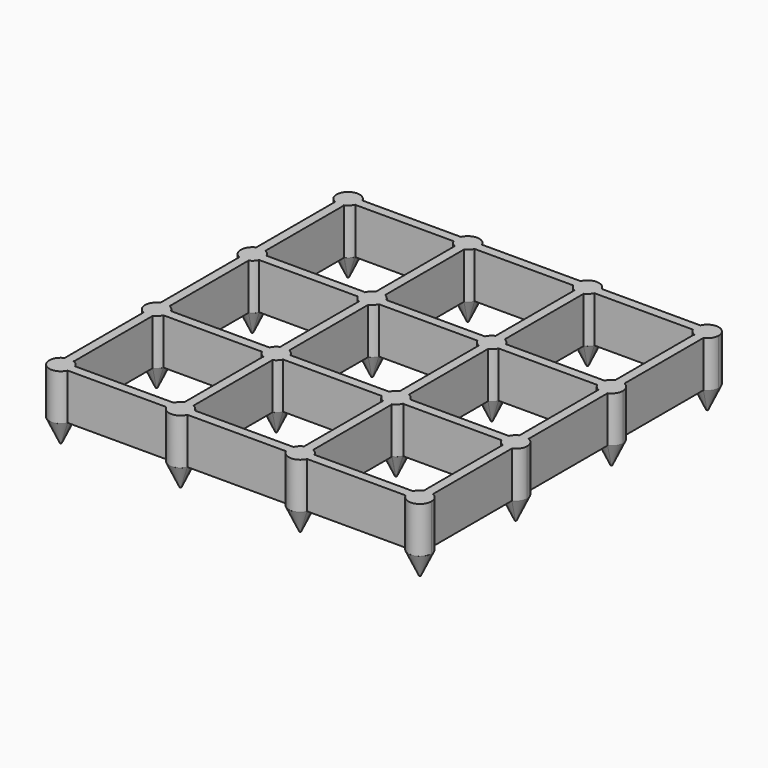
from build123d import *

# Parameters (mm, degrees)
F1_DEPTH = 5
F1_TAPER = 25
F2_DEPTH = 10


with BuildPart() as f1:
    # F0 (on Top) → F1 (new body)
    with BuildSketch(Plane.XY):
        with BuildLine():
            ThreePointArc((-12.0869216066, 62.6727080442), (-12.0432914191, 62.6903011687), (-12, 62.7087121525))
            ThreePointArc((-12, 62.7087121525), (-11.232233047, 63.232233047), (-10.7087121525, 64))
            ThreePointArc((-10.7087121525, 64), (-10.6903011687, 64.0432914191), (-10.6727080442, 64.0869216066))
            ThreePointArc((-10.6727080442, 64.0869216066), (-10.5435564438, 64.5353656758), (-10.5, 65))
            ThreePointArc((-10.5, 65), (-10.5527342177, 65.5107741092), (-10.7087121525, 66))
            ThreePointArc((-10.7087121525, 66), (-14.767766953, 66.767766953), (-14, 62.7087121525))
            ThreePointArc((-14, 62.7087121525), (-13.0470416345, 62.5004426223), (-12.0869216066, 62.6727080442))
        make_face()
    extrude(amount=-F1_DEPTH, taper=F1_TAPER)



with BuildPart() as f1b:
    # F0 (on Top) → F1, piece 2 (new body)
    with BuildSketch(Plane.XY):
        with BuildLine():
            ThreePointArc((-12, 36.7087121525), (-11.232233047, 37.232233047), (-10.7087121525, 38))
            ThreePointArc((-10.7087121525, 38), (-10.5527342177, 38.4892258908), (-10.5, 39))
            ThreePointArc((-10.5, 39), (-10.5527342177, 39.5107741092), (-10.7087121525, 40))
            ThreePointArc((-10.7087121525, 40), (-11.232233047, 40.767766953), (-12, 41.2912878475))
            ThreePointArc((-12, 41.2912878475), (-13, 41.5), (-14, 41.2912878475))
            ThreePointArc((-14, 41.2912878475), (-15.5, 39), (-14, 36.7087121525))
            ThreePointArc((-14, 36.7087121525), (-13, 36.5), (-12, 36.7087121525))
        make_face()
    extrude(amount=-F1_DEPTH, taper=F1_TAPER)


with BuildPart() as f1c:
    # F0 (on Top) → F1, piece 3 (new body)
    with BuildSketch(Plane.XY):
        with BuildLine():
            ThreePointArc((-10.5, 13), (-10.5527342177, 13.5107741092), (-10.7087121525, 14))
            ThreePointArc((-10.7087121525, 14), (-11.232233047, 14.767766953), (-12, 15.2912878475))
            ThreePointArc((-12, 15.2912878475), (-13, 15.5), (-14, 15.2912878475))
            ThreePointArc((-14, 15.2912878475), (-15.5, 13), (-14, 10.7087121525))
            ThreePointArc((-14, 10.7087121525), (-13, 10.5), (-12, 10.7087121525))
            ThreePointArc((-12, 10.7087121525), (-11.232233047, 11.232233047), (-10.7087121525, 12))
            ThreePointArc((-10.7087121525, 12), (-10.5527342177, 12.4892258908), (-10.5, 13))
        make_face()
    extrude(amount=-F1_DEPTH, taper=F1_TAPER)


with BuildPart() as f1d:
    # F0 (on Top) → F1, piece 4 (new body)
    with BuildSketch(Plane.XY):
        with BuildLine():
            ThreePointArc((-10.6727080442, -12.0869216066), (-10.6903011687, -12.0432914191), (-10.7087121525, -12))
            ThreePointArc((-10.7087121525, -12), (-11.232233047, -11.232233047), (-12, -10.7087121525))
            ThreePointArc((-12, -10.7087121525), (-12.0432914191, -10.6903011687), (-12.0869216066, -10.6727080442))
            ThreePointArc((-12.0869216066, -10.6727080442), (-13.0470416345, -10.5004426223), (-14, -10.7087121525))
            ThreePointArc((-14, -10.7087121525), (-14.767766953, -14.767766953), (-10.7087121525, -14))
            ThreePointArc((-10.7087121525, -14), (-10.5527342177, -13.5107741092), (-10.5, -13))
            ThreePointArc((-10.5, -13), (-10.5435564438, -12.5353656758), (-10.6727080442, -12.0869216066))
        make_face()
    extrude(amount=-F1_DEPTH, taper=F1_TAPER)


with BuildPart() as f1e:
    # F0 (on Top) → F1, piece 5 (new body)
    with BuildSketch(Plane.XY):
        with BuildLine():
            ThreePointArc((12, 62.7087121525), (13, 62.5), (14, 62.7087121525))
            ThreePointArc((14, 62.7087121525), (14.767766953, 63.232233047), (15.2912878475, 64))
            ThreePointArc((15.2912878475, 64), (15.4472657823, 64.4892258908), (15.5, 65))
            ThreePointArc((15.5, 65), (15.4472657823, 65.5107741092), (15.2912878475, 66))
            ThreePointArc((15.2912878475, 66), (13, 67.5), (10.7087121525, 66))
            ThreePointArc((10.7087121525, 66), (10.5, 65), (10.7087121525, 64))
            ThreePointArc((10.7087121525, 64), (11.232233047, 63.232233047), (12, 62.7087121525))
        make_face()
    extrude(amount=-F1_DEPTH, taper=F1_TAPER)


with BuildPart() as f1f:
    # F0 (on Top) → F1, piece 6 (new body)
    with BuildSketch(Plane.XY):
        with BuildLine():
            ThreePointArc((12, 36.7087121525), (13, 36.5), (14, 36.7087121525))
            ThreePointArc((14, 36.7087121525), (14.767766953, 37.232233047), (15.2912878475, 38))
            ThreePointArc((15.2912878475, 38), (15.4472657823, 38.4892258908), (15.5, 39))
            ThreePointArc((15.5, 39), (15.4472657823, 39.5107741092), (15.2912878475, 40))
            ThreePointArc((15.2912878475, 40), (14.767766953, 40.767766953), (14, 41.2912878475))
            ThreePointArc((14, 41.2912878475), (13.0470416345, 41.4995573777), (12.0869216066, 41.3272919558))
            ThreePointArc((12.0869216066, 41.3272919558), (12.0432914191, 41.3096988313), (12, 41.2912878475))
            ThreePointArc((12, 41.2912878475), (11.232233047, 40.767766953), (10.7087121525, 40))
            ThreePointArc((10.7087121525, 40), (10.6903011687, 39.9567085809), (10.6727080442, 39.9130783934))
            ThreePointArc((10.6727080442, 39.9130783934), (10.5004426223, 38.9529583655), (10.7087121525, 38))
            ThreePointArc((10.7087121525, 38), (11.232233047, 37.232233047), (12, 36.7087121525))
        make_face()
    extrude(amount=-F1_DEPTH, taper=F1_TAPER)


with BuildPart() as f1g:
    # F0 (on Top) → F1, piece 7 (new body)
    with BuildSketch(Plane.XY):
        with BuildLine():
            ThreePointArc((15.2912878475, 12), (15.4472657823, 12.4892258908), (15.5, 13))
            ThreePointArc((15.5, 13), (15.4472657823, 13.5107741092), (15.2912878475, 14))
            ThreePointArc((15.2912878475, 14), (14.767766953, 14.767766953), (14, 15.2912878475))
            ThreePointArc((14, 15.2912878475), (13, 15.5), (12, 15.2912878475))
            ThreePointArc((12, 15.2912878475), (11.232233047, 14.767766953), (10.7087121525, 14))
            ThreePointArc((10.7087121525, 14), (10.5004426223, 13.0470416345), (10.6727080442, 12.0869216066))
            ThreePointArc((10.6727080442, 12.0869216066), (10.6903011687, 12.0432914191), (10.7087121525, 12))
            ThreePointArc((10.7087121525, 12), (11.232233047, 11.232233047), (12, 10.7087121525))
            ThreePointArc((12, 10.7087121525), (12.0432914191, 10.6903011687), (12.0869216066, 10.6727080442))
            ThreePointArc((12.0869216066, 10.6727080442), (13.0470416345, 10.5004426223), (14, 10.7087121525))
            ThreePointArc((14, 10.7087121525), (14.767766953, 11.232233047), (15.2912878475, 12))
        make_face()
    extrude(amount=-F1_DEPTH, taper=F1_TAPER)


with BuildPart() as f1h:
    # F0 (on Top) → F1, piece 8 (new body)
    with BuildSketch(Plane.XY):
        with BuildLine():
            ThreePointArc((15.2912878475, -12), (14.767766953, -11.232233047), (14, -10.7087121525))
            ThreePointArc((14, -10.7087121525), (13, -10.5), (12, -10.7087121525))
            ThreePointArc((12, -10.7087121525), (11.232233047, -11.232233047), (10.7087121525, -12))
            ThreePointArc((10.7087121525, -12), (10.5, -13), (10.7087121525, -14))
            ThreePointArc((10.7087121525, -14), (13, -15.5), (15.2912878475, -14))
            ThreePointArc((15.2912878475, -14), (15.4472657823, -13.5107741092), (15.5, -13))
            ThreePointArc((15.5, -13), (15.4472657823, -12.4892258908), (15.2912878475, -12))
        make_face()
    extrude(amount=-F1_DEPTH, taper=F1_TAPER)


with BuildPart() as f1i:
    # F0 (on Top) → F1, piece 9 (new body)
    with BuildSketch(Plane.XY):
        with BuildLine():
            ThreePointArc((36.7087121525, 64), (37.232233047, 63.232233047), (38, 62.7087121525))
            ThreePointArc((38, 62.7087121525), (39, 62.5), (40, 62.7087121525))
            ThreePointArc((40, 62.7087121525), (40.767766953, 63.232233047), (41.2912878475, 64))
            ThreePointArc((41.2912878475, 64), (41.4472657823, 64.4892258908), (41.5, 65))
            ThreePointArc((41.5, 65), (41.4472657823, 65.5107741092), (41.2912878475, 66))
            ThreePointArc((41.2912878475, 66), (39, 67.5), (36.7087121525, 66))
            ThreePointArc((36.7087121525, 66), (36.5, 65), (36.7087121525, 64))
        make_face()
    extrude(amount=-F1_DEPTH, taper=F1_TAPER)


with BuildPart() as f1j:
    # F0 (on Top) → F1, piece 10 (new body)
    with BuildSketch(Plane.XY):
        with BuildLine():
            ThreePointArc((36.7087121525, 38), (37.232233047, 37.232233047), (38, 36.7087121525))
            ThreePointArc((38, 36.7087121525), (39, 36.5), (40, 36.7087121525))
            ThreePointArc((40, 36.7087121525), (40.767766953, 37.232233047), (41.2912878475, 38))
            ThreePointArc((41.2912878475, 38), (41.4472657823, 38.4892258908), (41.5, 39))
            ThreePointArc((41.5, 39), (41.4564435562, 39.4646343242), (41.3272919558, 39.9130783934))
            ThreePointArc((41.3272919558, 39.9130783934), (41.3096988313, 39.9567085809), (41.2912878475, 40))
            ThreePointArc((41.2912878475, 40), (40.767766953, 40.767766953), (40, 41.2912878475))
            ThreePointArc((40, 41.2912878475), (39.9567085809, 41.3096988313), (39.9130783934, 41.3272919558))
            ThreePointArc((39.9130783934, 41.3272919558), (38.9529583655, 41.4995573777), (38, 41.2912878475))
            ThreePointArc((38, 41.2912878475), (37.232233047, 40.767766953), (36.7087121525, 40))
            ThreePointArc((36.7087121525, 40), (36.5, 39), (36.7087121525, 38))
        make_face()
    extrude(amount=-F1_DEPTH, taper=F1_TAPER)


with BuildPart() as f1k:
    # F0 (on Top) → F1, piece 11 (new body)
    with BuildSketch(Plane.XY):
        with BuildLine():
            ThreePointArc((38, 15.2912878475), (37.232233047, 14.767766953), (36.7087121525, 14))
            ThreePointArc((36.7087121525, 14), (36.5, 13), (36.7087121525, 12))
            ThreePointArc((36.7087121525, 12), (37.232233047, 11.232233047), (38, 10.7087121525))
            ThreePointArc((38, 10.7087121525), (38.9529583655, 10.5004426223), (39.9130783934, 10.6727080442))
            ThreePointArc((39.9130783934, 10.6727080442), (39.9567085809, 10.6903011687), (40, 10.7087121525))
            ThreePointArc((40, 10.7087121525), (40.767766953, 11.232233047), (41.2912878475, 12))
            ThreePointArc((41.2912878475, 12), (41.3096988313, 12.0432914191), (41.3272919558, 12.0869216066))
            ThreePointArc((41.3272919558, 12.0869216066), (41.4564435562, 12.5353656758), (41.5, 13))
            ThreePointArc((41.5, 13), (41.4472657823, 13.5107741092), (41.2912878475, 14))
            ThreePointArc((41.2912878475, 14), (40.767766953, 14.767766953), (40, 15.2912878475))
            ThreePointArc((40, 15.2912878475), (39, 15.5), (38, 15.2912878475))
        make_face()
    extrude(amount=-F1_DEPTH, taper=F1_TAPER)


with BuildPart() as f1l:
    # F0 (on Top) → F1, piece 12 (new body)
    with BuildSketch(Plane.XY):
        with BuildLine():
            ThreePointArc((40, -10.7087121525), (39, -10.5), (38, -10.7087121525))
            ThreePointArc((38, -10.7087121525), (37.232233047, -11.232233047), (36.7087121525, -12))
            ThreePointArc((36.7087121525, -12), (36.5, -13), (36.7087121525, -14))
            ThreePointArc((36.7087121525, -14), (39, -15.5), (41.2912878475, -14))
            ThreePointArc((41.2912878475, -14), (41.4472657823, -13.5107741092), (41.5, -13))
            ThreePointArc((41.5, -13), (41.4472657823, -12.4892258908), (41.2912878475, -12))
            ThreePointArc((41.2912878475, -12), (40.767766953, -11.232233047), (40, -10.7087121525))
        make_face()
    extrude(amount=-F1_DEPTH, taper=F1_TAPER)


with BuildPart() as f1m:
    # F0 (on Top) → F1, piece 13 (new body)
    with BuildSketch(Plane.XY):
        with BuildLine():
            ThreePointArc((62.6727080442, 64.0869216066), (62.6903011687, 64.0432914191), (62.7087121525, 64))
            ThreePointArc((62.7087121525, 64), (63.232233047, 63.232233047), (64, 62.7087121525))
            ThreePointArc((64, 62.7087121525), (64.0432914191, 62.6903011687), (64.0869216066, 62.6727080442))
            ThreePointArc((64.0869216066, 62.6727080442), (65.0470416345, 62.5004426223), (66, 62.7087121525))
            ThreePointArc((66, 62.7087121525), (67.0916500663, 63.6306936062), (67.5, 65))
            ThreePointArc((67.5, 65), (65.5107741092, 67.4472657823), (62.7087121525, 66))
            ThreePointArc((62.7087121525, 66), (62.5004426223, 65.0470416345), (62.6727080442, 64.0869216066))
        make_face()
    extrude(amount=-F1_DEPTH, taper=F1_TAPER)


with BuildPart() as f1n:
    # F0 (on Top) → F1, piece 14 (new body)
    with BuildSketch(Plane.XY):
        with BuildLine():
            ThreePointArc((62.7087121525, 40), (62.5, 39), (62.7087121525, 38))
            ThreePointArc((62.7087121525, 38), (63.232233047, 37.232233047), (64, 36.7087121525))
            ThreePointArc((64, 36.7087121525), (65, 36.5), (66, 36.7087121525))
            ThreePointArc((66, 36.7087121525), (67.0916500663, 37.6306936062), (67.5, 39))
            ThreePointArc((67.5, 39), (67.0916500663, 40.3693063938), (66, 41.2912878475))
            ThreePointArc((66, 41.2912878475), (65, 41.5), (64, 41.2912878475))
            ThreePointArc((64, 41.2912878475), (63.232233047, 40.767766953), (62.7087121525, 40))
        make_face()
    extrude(amount=-F1_DEPTH, taper=F1_TAPER)


with BuildPart() as f1o:
    # F0 (on Top) → F1, piece 15 (new body)
    with BuildSketch(Plane.XY):
        with BuildLine():
            ThreePointArc((64, 15.2912878475), (63.232233047, 14.767766953), (62.7087121525, 14))
            ThreePointArc((62.7087121525, 14), (62.5, 13), (62.7087121525, 12))
            ThreePointArc((62.7087121525, 12), (63.232233047, 11.232233047), (64, 10.7087121525))
            ThreePointArc((64, 10.7087121525), (65, 10.5), (66, 10.7087121525))
            ThreePointArc((66, 10.7087121525), (67.0916500663, 11.6306936062), (67.5, 13))
            ThreePointArc((67.5, 13), (67.0916500663, 14.3693063938), (66, 15.2912878475))
            ThreePointArc((66, 15.2912878475), (65, 15.5), (64, 15.2912878475))
        make_face()
    extrude(amount=-F1_DEPTH, taper=F1_TAPER)


with BuildPart() as f1p:
    # F0 (on Top) → F1, piece 16 (new body)
    with BuildSketch(Plane.XY):
        with BuildLine():
            ThreePointArc((64, -10.7087121525), (63.232233047, -11.232233047), (62.7087121525, -12))
            ThreePointArc((62.7087121525, -12), (62.6903011687, -12.0432914191), (62.6727080442, -12.0869216066))
            ThreePointArc((62.6727080442, -12.0869216066), (62.5004426223, -13.0470416345), (62.7087121525, -14))
            ThreePointArc((62.7087121525, -14), (65.5107741092, -15.4472657823), (67.5, -13))
            ThreePointArc((67.5, -13), (67.0916500663, -11.6306936062), (66, -10.7087121525))
            ThreePointArc((66, -10.7087121525), (65.0470416345, -10.5004426223), (64.0869216066, -10.6727080442))
            ThreePointArc((64.0869216066, -10.6727080442), (64.0432914191, -10.6903011687), (64, -10.7087121525))
        make_face()
    extrude(amount=-F1_DEPTH, taper=F1_TAPER)


with BuildPart() as f1_1:
    add(f1.part)

    add(f1b.part)  # F2 merges F1b

    add(f1c.part)  # F2 merges F1c

    add(f1d.part)  # F2 merges F1d

    add(f1e.part)  # F2 merges F1e

    add(f1f.part)  # F2 merges F1f

    add(f1g.part)  # F2 merges F1g

    add(f1h.part)  # F2 merges F1h

    add(f1i.part)  # F2 merges F1i

    add(f1j.part)  # F2 merges F1j

    add(f1k.part)  # F2 merges F1k

    add(f1l.part)  # F2 merges F1l

    add(f1m.part)  # F2 merges F1m

    add(f1n.part)  # F2 merges F1n

    add(f1o.part)  # F2 merges F1o

    add(f1p.part)  # F2 merges F1p
    # F0 (on Top) → F2 (join)
    with BuildSketch(Plane.XY):
        with BuildLine():
            ThreePointArc((-12.0869216066, 62.6727080442), (-12.0432914191, 62.6903011687), (-12, 62.7087121525))
            ThreePointArc((-12, 62.7087121525), (-11.232233047, 63.232233047), (-10.7087121525, 64))
            ThreePointArc((-10.7087121525, 64), (-10.6903011687, 64.0432914191), (-10.6727080442, 64.0869216066))
            ThreePointArc((-10.6727080442, 64.0869216066), (-10.5435564438, 64.5353656758), (-10.5, 65))
            ThreePointArc((-10.5, 65), (-10.5527342177, 65.5107741092), (-10.7087121525, 66))
            ThreePointArc((-10.7087121525, 66), (-14.767766953, 66.767766953), (-14, 62.7087121525))
            ThreePointArc((-14, 62.7087121525), (-13.0470416345, 62.5004426223), (-12.0869216066, 62.6727080442))
        make_face()
        with BuildLine():
            Line((-12, 41.2912878475), (-12, 62.5857864376))
            Line((-12, 62.5857864376), (-12.0869216066, 62.6727080442))
            ThreePointArc((-12.0869216066, 62.6727080442), (-13.0470416345, 62.5004426223), (-14, 62.7087121525))
            Line((-14, 62.7087121525), (-14, 41.2912878475))
            ThreePointArc((-14, 41.2912878475), (-13, 41.5), (-12, 41.2912878475))
        make_face()
        with BuildLine():
            ThreePointArc((-12, 36.7087121525), (-11.232233047, 37.232233047), (-10.7087121525, 38))
            ThreePointArc((-10.7087121525, 38), (-10.5527342177, 38.4892258908), (-10.5, 39))
            ThreePointArc((-10.5, 39), (-10.5527342177, 39.5107741092), (-10.7087121525, 40))
            ThreePointArc((-10.7087121525, 40), (-11.232233047, 40.767766953), (-12, 41.2912878475))
            ThreePointArc((-12, 41.2912878475), (-13, 41.5), (-14, 41.2912878475))
            ThreePointArc((-14, 41.2912878475), (-15.5, 39), (-14, 36.7087121525))
            ThreePointArc((-14, 36.7087121525), (-13, 36.5), (-12, 36.7087121525))
        make_face()
        with BuildLine():
            ThreePointArc((-14, 15.2912878475), (-13, 15.5), (-12, 15.2912878475))
            Line((-12, 15.2912878475), (-12, 36.7087121525))
            ThreePointArc((-12, 36.7087121525), (-13, 36.5), (-14, 36.7087121525))
            Line((-14, 36.7087121525), (-14, 15.2912878475))
        make_face()
        with BuildLine():
            ThreePointArc((-10.5, 13), (-10.5527342177, 13.5107741092), (-10.7087121525, 14))
            ThreePointArc((-10.7087121525, 14), (-11.232233047, 14.767766953), (-12, 15.2912878475))
            ThreePointArc((-12, 15.2912878475), (-13, 15.5), (-14, 15.2912878475))
            ThreePointArc((-14, 15.2912878475), (-15.5, 13), (-14, 10.7087121525))
            ThreePointArc((-14, 10.7087121525), (-13, 10.5), (-12, 10.7087121525))
            ThreePointArc((-12, 10.7087121525), (-11.232233047, 11.232233047), (-10.7087121525, 12))
            ThreePointArc((-10.7087121525, 12), (-10.5527342177, 12.4892258908), (-10.5, 13))
        make_face()
        with BuildLine():
            Line((-12.0869216066, -10.6727080442), (-12, -10.5857864376))
            Line((-12, -10.5857864376), (-12, 10.7087121525))
            ThreePointArc((-12, 10.7087121525), (-13, 10.5), (-14, 10.7087121525))
            Line((-14, 10.7087121525), (-14, -10.7087121525))
            ThreePointArc((-14, -10.7087121525), (-13.0470416345, -10.5004426223), (-12.0869216066, -10.6727080442))
        make_face()
        with BuildLine():
            ThreePointArc((-10.6727080442, -12.0869216066), (-10.6903011687, -12.0432914191), (-10.7087121525, -12))
            ThreePointArc((-10.7087121525, -12), (-11.232233047, -11.232233047), (-12, -10.7087121525))
            ThreePointArc((-12, -10.7087121525), (-12.0432914191, -10.6903011687), (-12.0869216066, -10.6727080442))
            ThreePointArc((-12.0869216066, -10.6727080442), (-13.0470416345, -10.5004426223), (-14, -10.7087121525))
            ThreePointArc((-14, -10.7087121525), (-14.767766953, -14.767766953), (-10.7087121525, -14))
            ThreePointArc((-10.7087121525, -14), (-10.5527342177, -13.5107741092), (-10.5, -13))
            ThreePointArc((-10.5, -13), (-10.5435564438, -12.5353656758), (-10.6727080442, -12.0869216066))
        make_face()
        with BuildLine():
            Line((-10.6727080442, 64.0869216066), (-10.5857864376, 64))
            Line((-10.5857864376, 64), (10.7087121525, 64))
            ThreePointArc((10.7087121525, 64), (10.5, 65), (10.7087121525, 66))
            Line((10.7087121525, 66), (-10.7087121525, 66))
            ThreePointArc((-10.7087121525, 66), (-10.5527342177, 65.5107741092), (-10.5, 65))
            ThreePointArc((-10.5, 65), (-10.5435564438, 64.5353656758), (-10.6727080442, 64.0869216066))
        make_face()
        with BuildLine():
            Line((-10.7087121525, 38), (10.7087121525, 38))
            ThreePointArc((10.7087121525, 38), (10.5004426223, 38.9529583655), (10.6727080442, 39.9130783934))
            Line((10.6727080442, 39.9130783934), (10.5857864376, 40))
            Line((10.5857864376, 40), (-10.7087121525, 40))
            ThreePointArc((-10.7087121525, 40), (-10.5527342177, 39.5107741092), (-10.5, 39))
            ThreePointArc((-10.5, 39), (-10.5527342177, 38.4892258908), (-10.7087121525, 38))
        make_face()
        with BuildLine():
            ThreePointArc((10.6727080442, 12.0869216066), (10.5004426223, 13.0470416345), (10.7087121525, 14))
            Line((10.7087121525, 14), (-10.7087121525, 14))
            ThreePointArc((-10.7087121525, 14), (-10.5527342177, 13.5107741092), (-10.5, 13))
            ThreePointArc((-10.5, 13), (-10.5527342177, 12.4892258908), (-10.7087121525, 12))
            Line((-10.7087121525, 12), (10.5857864376, 12))
            Line((10.5857864376, 12), (10.6727080442, 12.0869216066))
        make_face()
        with BuildLine():
            Line((10.7087121525, -12), (-10.5857864376, -12))
            Line((-10.5857864376, -12), (-10.6727080442, -12.0869216066))
            ThreePointArc((-10.6727080442, -12.0869216066), (-10.5435564438, -12.5353656758), (-10.5, -13))
            ThreePointArc((-10.5, -13), (-10.5527342177, -13.5107741092), (-10.7087121525, -14))
            Line((-10.7087121525, -14), (10.7087121525, -14))
            ThreePointArc((10.7087121525, -14), (10.5, -13), (10.7087121525, -12))
        make_face()
        with BuildLine():
            ThreePointArc((15.2912878475, -12), (14.767766953, -11.232233047), (14, -10.7087121525))
            ThreePointArc((14, -10.7087121525), (13, -10.5), (12, -10.7087121525))
            ThreePointArc((12, -10.7087121525), (11.232233047, -11.232233047), (10.7087121525, -12))
            ThreePointArc((10.7087121525, -12), (10.5, -13), (10.7087121525, -14))
            ThreePointArc((10.7087121525, -14), (13, -15.5), (15.2912878475, -14))
            ThreePointArc((15.2912878475, -14), (15.4472657823, -13.5107741092), (15.5, -13))
            ThreePointArc((15.5, -13), (15.4472657823, -12.4892258908), (15.2912878475, -12))
        make_face()
        with BuildLine():
            Line((14, -10.7087121525), (14, 10.7087121525))
            ThreePointArc((14, 10.7087121525), (13.0470416345, 10.5004426223), (12.0869216066, 10.6727080442))
            Line((12.0869216066, 10.6727080442), (12, 10.5857864376))
            Line((12, 10.5857864376), (12, -10.7087121525))
            ThreePointArc((12, -10.7087121525), (13, -10.5), (14, -10.7087121525))
        make_face()
        with BuildLine():
            ThreePointArc((15.2912878475, 12), (15.4472657823, 12.4892258908), (15.5, 13))
            ThreePointArc((15.5, 13), (15.4472657823, 13.5107741092), (15.2912878475, 14))
            ThreePointArc((15.2912878475, 14), (14.767766953, 14.767766953), (14, 15.2912878475))
            ThreePointArc((14, 15.2912878475), (13, 15.5), (12, 15.2912878475))
            ThreePointArc((12, 15.2912878475), (11.232233047, 14.767766953), (10.7087121525, 14))
            ThreePointArc((10.7087121525, 14), (10.5004426223, 13.0470416345), (10.6727080442, 12.0869216066))
            ThreePointArc((10.6727080442, 12.0869216066), (10.6903011687, 12.0432914191), (10.7087121525, 12))
            ThreePointArc((10.7087121525, 12), (11.232233047, 11.232233047), (12, 10.7087121525))
            ThreePointArc((12, 10.7087121525), (12.0432914191, 10.6903011687), (12.0869216066, 10.6727080442))
            ThreePointArc((12.0869216066, 10.6727080442), (13.0470416345, 10.5004426223), (14, 10.7087121525))
            ThreePointArc((14, 10.7087121525), (14.767766953, 11.232233047), (15.2912878475, 12))
        make_face()
        with BuildLine():
            ThreePointArc((12, 15.2912878475), (13, 15.5), (14, 15.2912878475))
            Line((14, 15.2912878475), (14, 36.7087121525))
            ThreePointArc((14, 36.7087121525), (13, 36.5), (12, 36.7087121525))
            Line((12, 36.7087121525), (12, 15.2912878475))
        make_face()
        with BuildLine():
            ThreePointArc((12, 36.7087121525), (13, 36.5), (14, 36.7087121525))
            ThreePointArc((14, 36.7087121525), (14.767766953, 37.232233047), (15.2912878475, 38))
            ThreePointArc((15.2912878475, 38), (15.4472657823, 38.4892258908), (15.5, 39))
            ThreePointArc((15.5, 39), (15.4472657823, 39.5107741092), (15.2912878475, 40))
            ThreePointArc((15.2912878475, 40), (14.767766953, 40.767766953), (14, 41.2912878475))
            ThreePointArc((14, 41.2912878475), (13.0470416345, 41.4995573777), (12.0869216066, 41.3272919558))
            ThreePointArc((12.0869216066, 41.3272919558), (12.0432914191, 41.3096988313), (12, 41.2912878475))
            ThreePointArc((12, 41.2912878475), (11.232233047, 40.767766953), (10.7087121525, 40))
            ThreePointArc((10.7087121525, 40), (10.6903011687, 39.9567085809), (10.6727080442, 39.9130783934))
            ThreePointArc((10.6727080442, 39.9130783934), (10.5004426223, 38.9529583655), (10.7087121525, 38))
            ThreePointArc((10.7087121525, 38), (11.232233047, 37.232233047), (12, 36.7087121525))
        make_face()
        with BuildLine():
            ThreePointArc((12.0869216066, 41.3272919558), (13.0470416345, 41.4995573777), (14, 41.2912878475))
            Line((14, 41.2912878475), (14, 62.7087121525))
            ThreePointArc((14, 62.7087121525), (13, 62.5), (12, 62.7087121525))
            Line((12, 62.7087121525), (12, 41.4142135624))
            Line((12, 41.4142135624), (12.0869216066, 41.3272919558))
        make_face()
        with BuildLine():
            ThreePointArc((12, 62.7087121525), (13, 62.5), (14, 62.7087121525))
            ThreePointArc((14, 62.7087121525), (14.767766953, 63.232233047), (15.2912878475, 64))
            ThreePointArc((15.2912878475, 64), (15.4472657823, 64.4892258908), (15.5, 65))
            ThreePointArc((15.5, 65), (15.4472657823, 65.5107741092), (15.2912878475, 66))
            ThreePointArc((15.2912878475, 66), (13, 67.5), (10.7087121525, 66))
            ThreePointArc((10.7087121525, 66), (10.5, 65), (10.7087121525, 64))
            ThreePointArc((10.7087121525, 64), (11.232233047, 63.232233047), (12, 62.7087121525))
        make_face()
        with BuildLine():
            ThreePointArc((15.5, 65), (15.4472657823, 64.4892258908), (15.2912878475, 64))
            Line((15.2912878475, 64), (36.7087121525, 64))
            ThreePointArc((36.7087121525, 64), (36.5, 65), (36.7087121525, 66))
            Line((36.7087121525, 66), (15.2912878475, 66))
            ThreePointArc((15.2912878475, 66), (15.4472657823, 65.5107741092), (15.5, 65))
        make_face()
        with BuildLine():
            ThreePointArc((15.5, 39), (15.4472657823, 38.4892258908), (15.2912878475, 38))
            Line((15.2912878475, 38), (36.7087121525, 38))
            ThreePointArc((36.7087121525, 38), (36.5, 39), (36.7087121525, 40))
            Line((36.7087121525, 40), (15.2912878475, 40))
            ThreePointArc((15.2912878475, 40), (15.4472657823, 39.5107741092), (15.5, 39))
        make_face()
        with BuildLine():
            ThreePointArc((15.2912878475, 14), (15.4472657823, 13.5107741092), (15.5, 13))
            ThreePointArc((15.5, 13), (15.4472657823, 12.4892258908), (15.2912878475, 12))
            Line((15.2912878475, 12), (36.7087121525, 12))
            ThreePointArc((36.7087121525, 12), (36.5, 13), (36.7087121525, 14))
            Line((36.7087121525, 14), (15.2912878475, 14))
        make_face()
        with BuildLine():
            Line((36.7087121525, -12), (15.2912878475, -12))
            ThreePointArc((15.2912878475, -12), (15.4472657823, -12.4892258908), (15.5, -13))
            ThreePointArc((15.5, -13), (15.4472657823, -13.5107741092), (15.2912878475, -14))
            Line((15.2912878475, -14), (36.7087121525, -14))
            ThreePointArc((36.7087121525, -14), (36.5, -13), (36.7087121525, -12))
        make_face()
        with BuildLine():
            ThreePointArc((36.7087121525, 64), (37.232233047, 63.232233047), (38, 62.7087121525))
            ThreePointArc((38, 62.7087121525), (39, 62.5), (40, 62.7087121525))
            ThreePointArc((40, 62.7087121525), (40.767766953, 63.232233047), (41.2912878475, 64))
            ThreePointArc((41.2912878475, 64), (41.4472657823, 64.4892258908), (41.5, 65))
            ThreePointArc((41.5, 65), (41.4472657823, 65.5107741092), (41.2912878475, 66))
            ThreePointArc((41.2912878475, 66), (39, 67.5), (36.7087121525, 66))
            ThreePointArc((36.7087121525, 66), (36.5, 65), (36.7087121525, 64))
        make_face()
        with BuildLine():
            Line((38, 62.7087121525), (38, 41.2912878475))
            ThreePointArc((38, 41.2912878475), (38.9529583655, 41.4995573777), (39.9130783934, 41.3272919558))
            Line((39.9130783934, 41.3272919558), (40, 41.4142135624))
            Line((40, 41.4142135624), (40, 62.7087121525))
            ThreePointArc((40, 62.7087121525), (39, 62.5), (38, 62.7087121525))
        make_face()
        with BuildLine():
            ThreePointArc((36.7087121525, 38), (37.232233047, 37.232233047), (38, 36.7087121525))
            ThreePointArc((38, 36.7087121525), (39, 36.5), (40, 36.7087121525))
            ThreePointArc((40, 36.7087121525), (40.767766953, 37.232233047), (41.2912878475, 38))
            ThreePointArc((41.2912878475, 38), (41.4472657823, 38.4892258908), (41.5, 39))
            ThreePointArc((41.5, 39), (41.4564435562, 39.4646343242), (41.3272919558, 39.9130783934))
            ThreePointArc((41.3272919558, 39.9130783934), (41.3096988313, 39.9567085809), (41.2912878475, 40))
            ThreePointArc((41.2912878475, 40), (40.767766953, 40.767766953), (40, 41.2912878475))
            ThreePointArc((40, 41.2912878475), (39.9567085809, 41.3096988313), (39.9130783934, 41.3272919558))
            ThreePointArc((39.9130783934, 41.3272919558), (38.9529583655, 41.4995573777), (38, 41.2912878475))
            ThreePointArc((38, 41.2912878475), (37.232233047, 40.767766953), (36.7087121525, 40))
            ThreePointArc((36.7087121525, 40), (36.5, 39), (36.7087121525, 38))
        make_face()
        with BuildLine():
            Line((38, 36.7087121525), (38, 15.2912878475))
            ThreePointArc((38, 15.2912878475), (39, 15.5), (40, 15.2912878475))
            Line((40, 15.2912878475), (40, 36.7087121525))
            ThreePointArc((40, 36.7087121525), (39, 36.5), (38, 36.7087121525))
        make_face()
        with BuildLine():
            ThreePointArc((38, 15.2912878475), (37.232233047, 14.767766953), (36.7087121525, 14))
            ThreePointArc((36.7087121525, 14), (36.5, 13), (36.7087121525, 12))
            ThreePointArc((36.7087121525, 12), (37.232233047, 11.232233047), (38, 10.7087121525))
            ThreePointArc((38, 10.7087121525), (38.9529583655, 10.5004426223), (39.9130783934, 10.6727080442))
            ThreePointArc((39.9130783934, 10.6727080442), (39.9567085809, 10.6903011687), (40, 10.7087121525))
            ThreePointArc((40, 10.7087121525), (40.767766953, 11.232233047), (41.2912878475, 12))
            ThreePointArc((41.2912878475, 12), (41.3096988313, 12.0432914191), (41.3272919558, 12.0869216066))
            ThreePointArc((41.3272919558, 12.0869216066), (41.4564435562, 12.5353656758), (41.5, 13))
            ThreePointArc((41.5, 13), (41.4472657823, 13.5107741092), (41.2912878475, 14))
            ThreePointArc((41.2912878475, 14), (40.767766953, 14.767766953), (40, 15.2912878475))
            ThreePointArc((40, 15.2912878475), (39, 15.5), (38, 15.2912878475))
        make_face()
        with BuildLine():
            ThreePointArc((40, -10.7087121525), (39, -10.5), (38, -10.7087121525))
            ThreePointArc((38, -10.7087121525), (37.232233047, -11.232233047), (36.7087121525, -12))
            ThreePointArc((36.7087121525, -12), (36.5, -13), (36.7087121525, -14))
            ThreePointArc((36.7087121525, -14), (39, -15.5), (41.2912878475, -14))
            ThreePointArc((41.2912878475, -14), (41.4472657823, -13.5107741092), (41.5, -13))
            ThreePointArc((41.5, -13), (41.4472657823, -12.4892258908), (41.2912878475, -12))
            ThreePointArc((41.2912878475, -12), (40.767766953, -11.232233047), (40, -10.7087121525))
        make_face()
        with BuildLine():
            Line((41.2912878475, 64), (62.5857864376, 64))
            Line((62.5857864376, 64), (62.6727080442, 64.0869216066))
            ThreePointArc((62.6727080442, 64.0869216066), (62.5004426223, 65.0470416345), (62.7087121525, 66))
            Line((62.7087121525, 66), (41.2912878475, 66))
            ThreePointArc((41.2912878475, 66), (41.4472657823, 65.5107741092), (41.5, 65))
            ThreePointArc((41.5, 65), (41.4472657823, 64.4892258908), (41.2912878475, 64))
        make_face()
        with BuildLine():
            ThreePointArc((41.5, 39), (41.4472657823, 38.4892258908), (41.2912878475, 38))
            Line((41.2912878475, 38), (62.7087121525, 38))
            ThreePointArc((62.7087121525, 38), (62.5, 39), (62.7087121525, 40))
            Line((62.7087121525, 40), (41.4142135624, 40))
            Line((41.4142135624, 40), (41.3272919558, 39.9130783934))
            ThreePointArc((41.3272919558, 39.9130783934), (41.4564435562, 39.4646343242), (41.5, 39))
        make_face()
        with BuildLine():
            Line((62.7087121525, 14), (41.2912878475, 14))
            ThreePointArc((41.2912878475, 14), (41.4472657823, 13.5107741092), (41.5, 13))
            ThreePointArc((41.5, 13), (41.4564435562, 12.5353656758), (41.3272919558, 12.0869216066))
            Line((41.3272919558, 12.0869216066), (41.4142135624, 12))
            Line((41.4142135624, 12), (62.7087121525, 12))
            ThreePointArc((62.7087121525, 12), (62.5, 13), (62.7087121525, 14))
        make_face()
        with BuildLine():
            Line((62.5857864376, -12), (41.2912878475, -12))
            ThreePointArc((41.2912878475, -12), (41.4472657823, -12.4892258908), (41.5, -13))
            ThreePointArc((41.5, -13), (41.4472657823, -13.5107741092), (41.2912878475, -14))
            Line((41.2912878475, -14), (62.7087121525, -14))
            ThreePointArc((62.7087121525, -14), (62.5004426223, -13.0470416345), (62.6727080442, -12.0869216066))
            Line((62.6727080442, -12.0869216066), (62.5857864376, -12))
        make_face()
        with BuildLine():
            ThreePointArc((62.6727080442, 64.0869216066), (62.6903011687, 64.0432914191), (62.7087121525, 64))
            ThreePointArc((62.7087121525, 64), (63.232233047, 63.232233047), (64, 62.7087121525))
            ThreePointArc((64, 62.7087121525), (64.0432914191, 62.6903011687), (64.0869216066, 62.6727080442))
            ThreePointArc((64.0869216066, 62.6727080442), (65.0470416345, 62.5004426223), (66, 62.7087121525))
            ThreePointArc((66, 62.7087121525), (67.0916500663, 63.6306936062), (67.5, 65))
            ThreePointArc((67.5, 65), (65.5107741092, 67.4472657823), (62.7087121525, 66))
            ThreePointArc((62.7087121525, 66), (62.5004426223, 65.0470416345), (62.6727080442, 64.0869216066))
        make_face()
        with BuildLine():
            ThreePointArc((62.7087121525, 40), (62.5, 39), (62.7087121525, 38))
            ThreePointArc((62.7087121525, 38), (63.232233047, 37.232233047), (64, 36.7087121525))
            ThreePointArc((64, 36.7087121525), (65, 36.5), (66, 36.7087121525))
            ThreePointArc((66, 36.7087121525), (67.0916500663, 37.6306936062), (67.5, 39))
            ThreePointArc((67.5, 39), (67.0916500663, 40.3693063938), (66, 41.2912878475))
            ThreePointArc((66, 41.2912878475), (65, 41.5), (64, 41.2912878475))
            ThreePointArc((64, 41.2912878475), (63.232233047, 40.767766953), (62.7087121525, 40))
        make_face()
        with BuildLine():
            ThreePointArc((64, 15.2912878475), (63.232233047, 14.767766953), (62.7087121525, 14))
            ThreePointArc((62.7087121525, 14), (62.5, 13), (62.7087121525, 12))
            ThreePointArc((62.7087121525, 12), (63.232233047, 11.232233047), (64, 10.7087121525))
            ThreePointArc((64, 10.7087121525), (65, 10.5), (66, 10.7087121525))
            ThreePointArc((66, 10.7087121525), (67.0916500663, 11.6306936062), (67.5, 13))
            ThreePointArc((67.5, 13), (67.0916500663, 14.3693063938), (66, 15.2912878475))
            ThreePointArc((66, 15.2912878475), (65, 15.5), (64, 15.2912878475))
        make_face()
        with BuildLine():
            ThreePointArc((64, -10.7087121525), (63.232233047, -11.232233047), (62.7087121525, -12))
            ThreePointArc((62.7087121525, -12), (62.6903011687, -12.0432914191), (62.6727080442, -12.0869216066))
            ThreePointArc((62.6727080442, -12.0869216066), (62.5004426223, -13.0470416345), (62.7087121525, -14))
            ThreePointArc((62.7087121525, -14), (65.5107741092, -15.4472657823), (67.5, -13))
            ThreePointArc((67.5, -13), (67.0916500663, -11.6306936062), (66, -10.7087121525))
            ThreePointArc((66, -10.7087121525), (65.0470416345, -10.5004426223), (64.0869216066, -10.6727080442))
            ThreePointArc((64.0869216066, -10.6727080442), (64.0432914191, -10.6903011687), (64, -10.7087121525))
        make_face()
        with BuildLine():
            Line((64, 36.7087121525), (64, 15.2912878475))
            ThreePointArc((64, 15.2912878475), (65, 15.5), (66, 15.2912878475))
            Line((66, 15.2912878475), (66, 36.7087121525))
            ThreePointArc((66, 36.7087121525), (65, 36.5), (64, 36.7087121525))
        make_face()
        with BuildLine():
            ThreePointArc((66, 10.7087121525), (65, 10.5), (64, 10.7087121525))
            Line((64, 10.7087121525), (64, -10.5857864376))
            Line((64, -10.5857864376), (64.0869216066, -10.6727080442))
            ThreePointArc((64.0869216066, -10.6727080442), (65.0470416345, -10.5004426223), (66, -10.7087121525))
            Line((66, -10.7087121525), (66, 10.7087121525))
        make_face()
        with BuildLine():
            ThreePointArc((39.9130783934, 10.6727080442), (38.9529583655, 10.5004426223), (38, 10.7087121525))
            Line((38, 10.7087121525), (38, -10.7087121525))
            ThreePointArc((38, -10.7087121525), (39, -10.5), (40, -10.7087121525))
            Line((40, -10.7087121525), (40, 10.5857864376))
            Line((40, 10.5857864376), (39.9130783934, 10.6727080442))
        make_face()
        with BuildLine():
            Line((64, 62.5857864376), (64, 41.2912878475))
            ThreePointArc((64, 41.2912878475), (65, 41.5), (66, 41.2912878475))
            Line((66, 41.2912878475), (66, 62.7087121525))
            ThreePointArc((66, 62.7087121525), (65.0470416345, 62.5004426223), (64.0869216066, 62.6727080442))
            Line((64.0869216066, 62.6727080442), (64, 62.5857864376))
        make_face()
    extrude(amount=F2_DEPTH)


solid = f1_1.part
